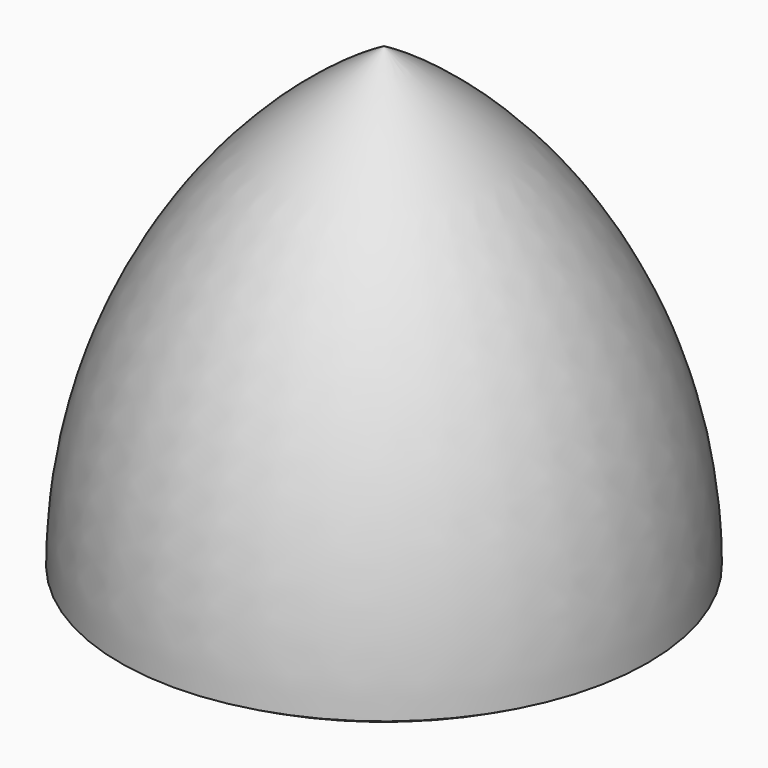
from build123d import *


with BuildPart() as f1:
    # F0 (on Front) → F1 (revolve)
    with BuildSketch(Plane.XZ):
        with BuildLine():
            Line((0, -25.358984), (0, 34.641016))
            ThreePointArc((0, 34.641016), (-21.961524, 12.679492), (-30, -17.320508))
            ThreePointArc((-30, -17.320508), (-15.529143, -23.314533), (0, -25.358984))
        make_face()
    revolve(axis=Axis((0, 0, 4.641016), (0, 0, -1)))


solid = f1.part
